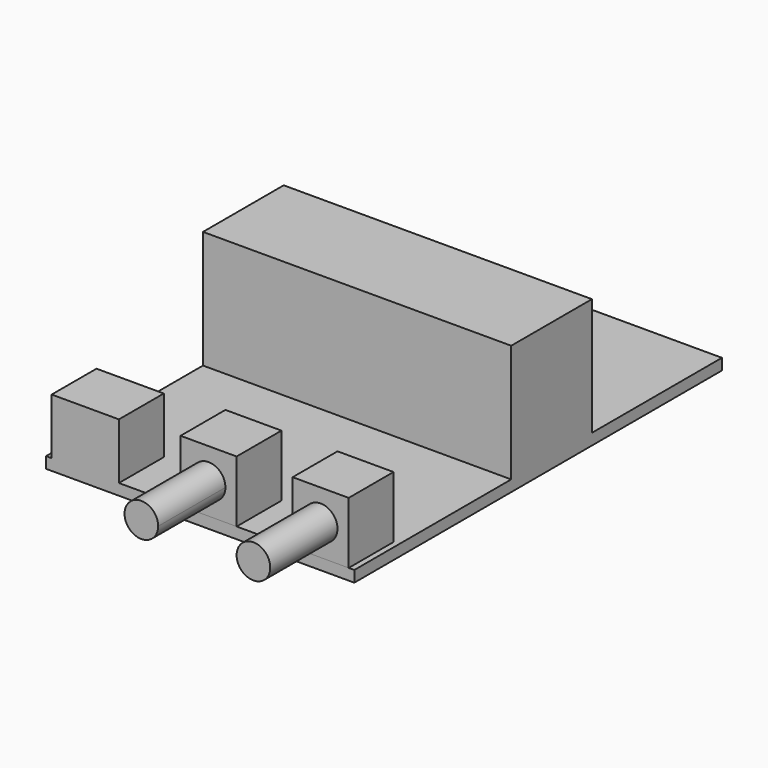
from build123d import *

# Parameters (mm, degrees)
F0_W     = 12
F0_H     = 10
F0_W_2   = 55
F0_H_2   = 18
F0_H_3   = 29
F0_W_3   = 10
F1_DEPTH = 2
F2_DEPTH = 11
F3_DEPTH = 10
F4_DEPTH = 21
F5_R     = 3
F6_DEPTH = 15


with BuildPart() as f1:
    # F0 (on Top) → F1 (new body)
    with BuildSketch(Plane.XY):
        Polygon((0, 35), (0, 0), (1, 0), (1, 10), (13, 10), (13, 0), (24, 0), (24, 10), (34, 10), (34, 0), (44, 0), (44, 10), (54, 10), (54, 0), (55, 0), (55, 35), align=None)
        with Locations((7, 5)):
            Rectangle(F0_W, F0_H)
        with Locations((27.5, 44)):
            Rectangle(F0_W_2, F0_H_2)
        with Locations((27.5, 67.5)):
            Rectangle(F0_W_2, F0_H_3)
        with Locations((29, 5)):
            Rectangle(F0_W_3, F0_H)
        with Locations((49, 5)):
            Rectangle(F0_W_3, F0_H)
    extrude(amount=-F1_DEPTH)

    # F0 (on Top) → F3 (join)
    with BuildSketch(Plane.XY):
        with Locations((7, 5)):
            Rectangle(F0_W, F0_H)
    extrude(amount=F3_DEPTH)

    # F0 (on Top) → F4 (join)
    with BuildSketch(Plane.XY):
        with Locations((27.5, 44)):
            Rectangle(F0_W_2, F0_H_2)
    extrude(amount=F4_DEPTH)


with BuildPart() as f2:
    # F0 (on Top) → F2 (new body)
    with BuildSketch(Plane.XY):
        with Locations((29, 5)):
            Rectangle(F0_W_3, F0_H)
        with Locations((49, 5)):
            Rectangle(F0_W_3, F0_H)
    extrude(amount=F2_DEPTH)


with BuildPart() as f6:
    # F5 (on face) → F6 (new body)
    with BuildSketch(Plane.XZ):
        with BuildLine():
            ThreePointArc((32, 5.5), (30.213661, 8.243543), (26.981982, 7.71982))
            Line((26.981982, 7.71982), (31.018018, 3.28018))
            ThreePointArc((31.018018, 3.28018), (31.743543, 4.286339), (32, 5.5))
        make_face()
        with BuildLine():
            Line((31.018018, 3.28018), (26.981982, 7.71982))
            ThreePointArc((26.981982, 7.71982), (26.78018, 3.481982), (31.018018, 3.28018))
        make_face()
        with Locations((49, 5.5)):
            Circle(F5_R)
    extrude(amount=F6_DEPTH)


solid = Compound([f1.part, f2.part, f6.part])
